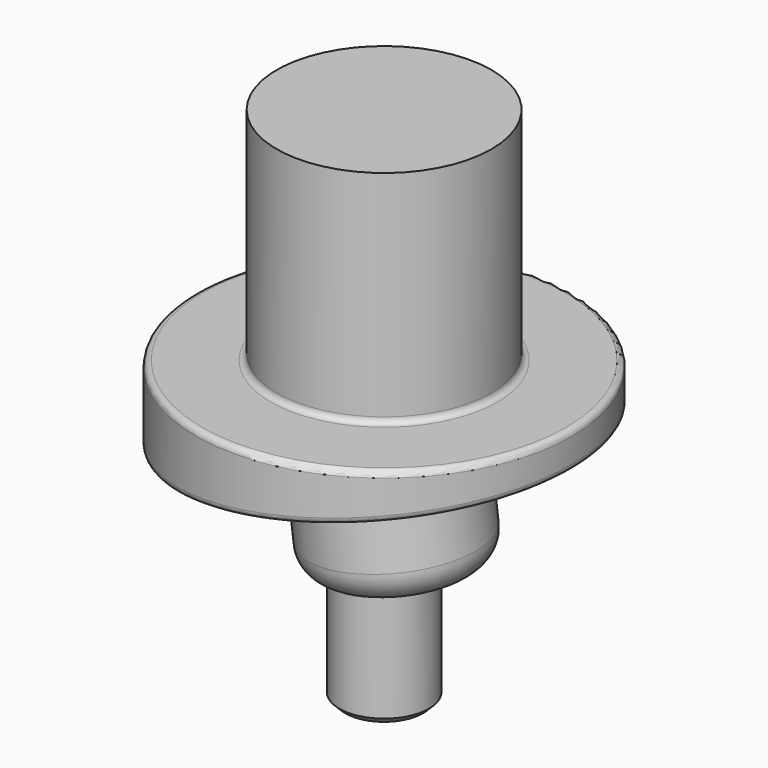
from build123d import *

# Parameters (mm, degrees)
F3_DEPTH = 50
F4_R     = 1
F5_R     = 13.5
F6_DEPTH = 20
F7_R     = 5
F8_R     = 7.5
F9_DEPTH = 87
F10_SIZE = 1


with BuildPart() as f1:
    # F0 (on Front) → F1 (revolve)
    with BuildSketch(Plane.XZ):
        Polygon((0, 51), (0, 0), (31.5, 0), (31.5, 14), (18, 14), (18, 51), align=None)
    revolve(axis=Axis((0, 0, 24.5041578436), (0, 0, 1)))

    # F2 (on Front) → F3 (cut, symmetric)
    with BuildSketch(Plane.XZ):
        Polygon((31.5, 8), (-31.5, 0), (31.5, 0), align=None)
    extrude(amount=F3_DEPTH, both=True, mode=Mode.SUBTRACT)

    # F4
    f4_edges = [f1.edges().sort_by_distance(p)[0] for p in [
        (0, 31.5, 4),
        (0, -31.5, 4),
        (-31.5, 0, 14),
        (-18, 0, 14),
    ]]
    fillet(f4_edges, radius=F4_R)

    # F5 (on face) → F6 (join)
    with BuildSketch(Plane(origin=(-0.4998760228, 0, 3.9365236796), x_dir=(0.9920337292, 0, 0.125972537), z_dir=(0.125972537, 0, -0.9920337292))):
        with Locations((0.6308742752, 0)):
            Circle(F5_R)
    extrude(amount=F6_DEPTH)

    # F7
    f7_edges = [f1.edges().sort_by_distance(p)[0] for p in [
        (-10.747032, 0, -17.525307),
    ]]
    fillet(f7_edges, radius=F7_R)

    # F8 (on face) → F9 (join)
    with BuildSketch(Plane.XY.offset(51)):
        Circle(F8_R)
    extrude(amount=-F9_DEPTH)

    # F10
    f10_edges = [f1.edges().sort_by_distance(p)[0] for p in [
        (-7.5, 0, -36),
    ]]
    chamfer(f10_edges, length=F10_SIZE)


solid = f1.part
